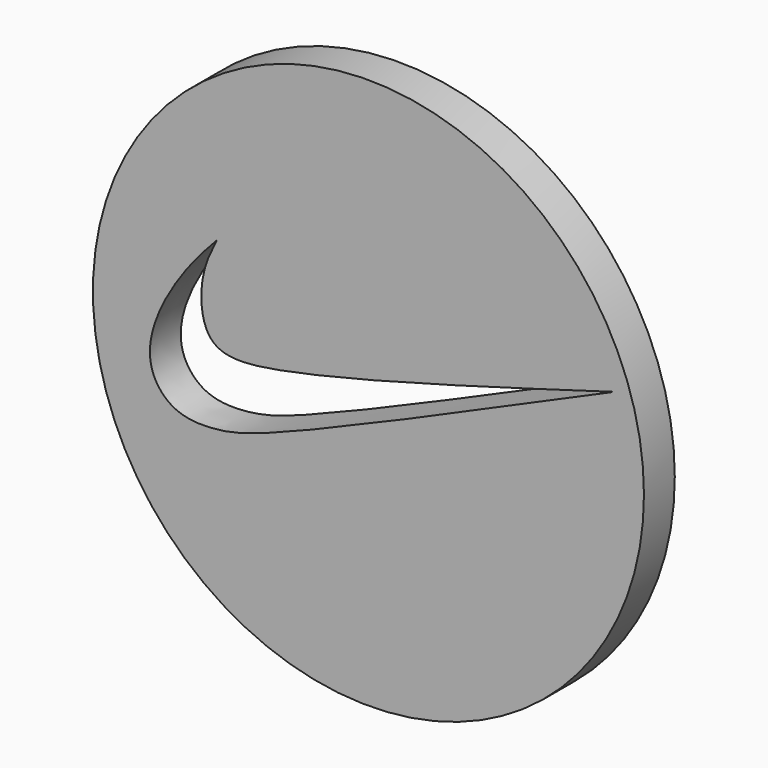
from build123d import *

# Parameters (mm, degrees)
F0_R     = 11.3473282449
F1_DEPTH = 1.5875
F3_DEPTH = 25.4


with BuildPart() as f1:
    # F0 (on Front) → F1 (new body)
    with BuildSketch(Plane.XZ):
        with Locations((0, -0.1784344495)):
            Circle(F0_R)
    extrude(amount=F1_DEPTH)

    # F2 (on face) → F3 (cut)
    with BuildSketch(Plane.XZ.offset(1.5875)):
        with BuildLine():
            add(Edge.make_bspline(
                [(-6.2503903173, 3.3180618193), (-6.4951849548, 2.8219662677), (-7.0061343912, 1.7864871203), (-6.8034238905, -0.9206252742), (-2.8911900909, -0.6566976341), (4.8060437415, 1.5953753562), (10.1284589618, 3.1526188832)],
                knots=[0, 0, 0, 0, 0.1605544188, 0.3351184105, 0.5402535549, 1, 1, 1, 1], degree=3))
            add(Edge.make_bspline(
                [(10.1284589618, 3.1526188832), (4.3568851598, 0.5933042662), (-3.6420655653, -2.9537059972), (-6.1152759521, -3.599221858), (-8.0314129708, -3.5806478495), (-9.1700497465, -2.2359587726), (-8.8725672664, -0.2319982765), (-7.4884235373, 1.9974142496), (-6.6362505326, 2.9064530293), (-6.2503903173, 3.3180618193)],
                knots=[0, 0, 0, 0, 0.3194682726, 0.4427580861, 0.5476273101, 0.6471561419, 0.7592628974, 0.8909952912, 1, 1, 1, 1], degree=3))
        make_face()
    extrude(amount=-F3_DEPTH, mode=Mode.SUBTRACT)


solid = f1.part
